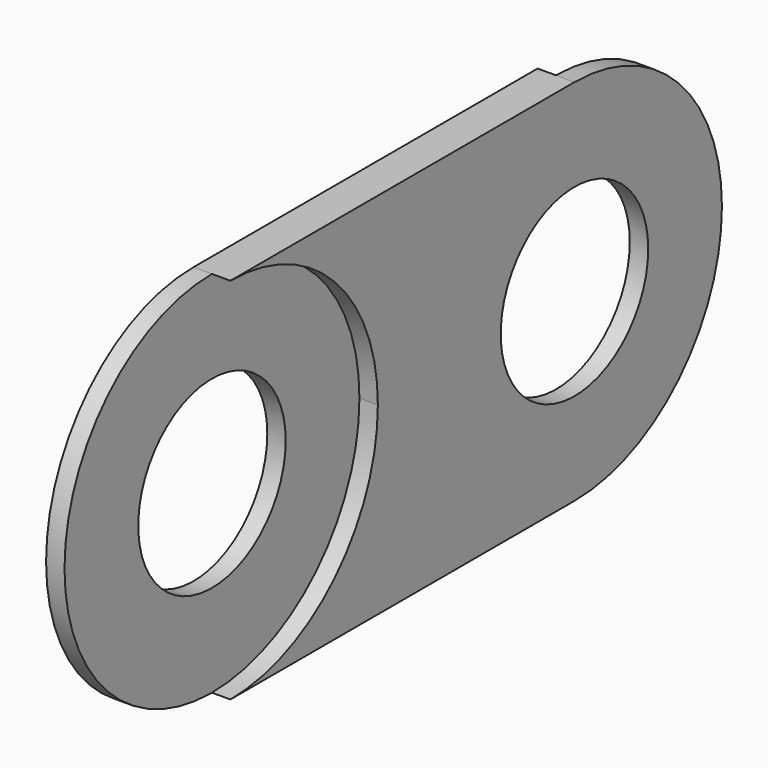
from build123d import *

# Parameters (mm, degrees)
F1_DEPTH      = 3
F1_DEPTH_BACK = 3
F0_R          = 15
F2_DEPTH      = 3
F3_DEPTH      = 3


with BuildPart() as f1:
    # F0 (on Right) → F1 (new body, two sides)
    with BuildSketch(Plane.YZ) as f1_sk:
        with BuildLine():
            ThreePointArc((-70, 30), (-48.786797, 21.213203), (-40, 0))
            ThreePointArc((-40, 0), (-48.786797, -21.213203), (-70, -30))
            Line((-70, -30), (0, -30))
            ThreePointArc((0, -30), (-30, 0), (0, 30))
            Line((0, 30), (-70, 30))
        make_face()
    extrude(amount=F1_DEPTH)
    extrude(f1_sk.sketch, amount=-F1_DEPTH_BACK)

    # F0 (on Right) → F2 (join)
    with BuildSketch(Plane.YZ):
        with BuildLine():
            ThreePointArc((30, 0), (21.213203, 21.213203), (0, 30))
            ThreePointArc((0, 30), (-30, 0), (0, -30))
            ThreePointArc((0, -30), (21.213203, -21.213203), (30, 0))
        make_face()
        Circle(F0_R, mode=Mode.SUBTRACT)
    extrude(amount=F2_DEPTH)

    # F0 (on Right) → F3 (join)
    with BuildSketch(Plane.YZ):
        with BuildLine():
            ThreePointArc((-70, -30), (-48.786797, -21.213203), (-40, 0))
            ThreePointArc((-40, 0), (-48.786797, 21.213203), (-70, 30))
            ThreePointArc((-70, 30), (-100, 0), (-70, -30))
        make_face()
        with Locations((-70, 0)):
            Circle(F0_R, mode=Mode.SUBTRACT)
    extrude(amount=-F3_DEPTH)


solid = f1.part
